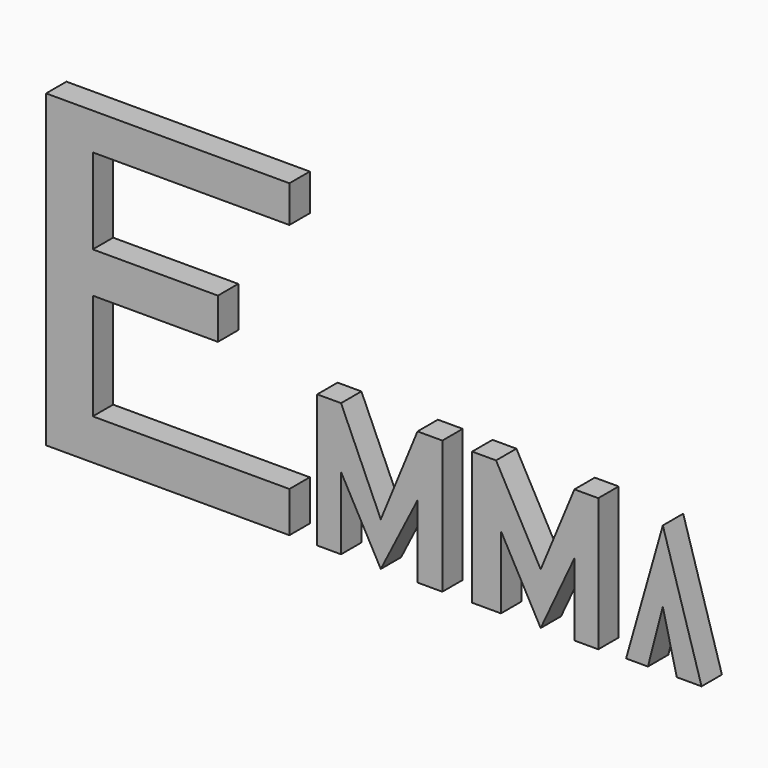
from build123d import *

# Parameters (mm, degrees)
F1_DEPTH = 7.366


with BuildPart() as f1:
    # F0 (on Front) → F1 (new body)
    with BuildSketch(Plane.XZ):
        Polygon((-64.599179, 41.590162), (-135.032013, 41.590162), (-135.032013, -48.103891), (-64.599179, -48.103891), (-64.599179, -36.317173), (-121.520407, -36.317173), (-121.520407, -5.556713), (-85.297808, -5.556713), (-85.297808, 6.230006), (-121.520407, 6.230006), (-121.520407, 30.953364), (-64.599179, 30.953364), align=None)
        Polygon((-49.65017, -9.581447), (-56.549713, -9.581447), (-56.549713, -48.103891), (-49.65017, -48.103891), (-49.65017, -27.117783), (-38.150933, -48.103891), (-27.514137, -27.117783), (-27.514137, -48.103891), (-20.327117, -48.103891), (-20.327117, -9.581447), (-27.514137, -9.581447), (-38.150933, -35.454731), align=None)
        Polygon((-4.783454, -9.581447), (-11.702689, -9.581447), (-11.702689, -48.103891), (-3.36574, -48.103891), (-3.36574, -27.117783), (8.133497, -48.103891), (17.907849, -27.117783), (17.907849, -48.103891), (24.807392, -48.103891), (24.807392, -9.581447), (17.907849, -9.581447), (8.133497, -33.154882), align=None)
        Polygon((43.493655, -10.44389), (32.856859, -47.816411), (39.181441, -47.816411), (43.493655, -31.142516), (47.518387, -47.816411), (54.705407, -47.816411), align=None)
    extrude(amount=F1_DEPTH)


solid = f1.part
